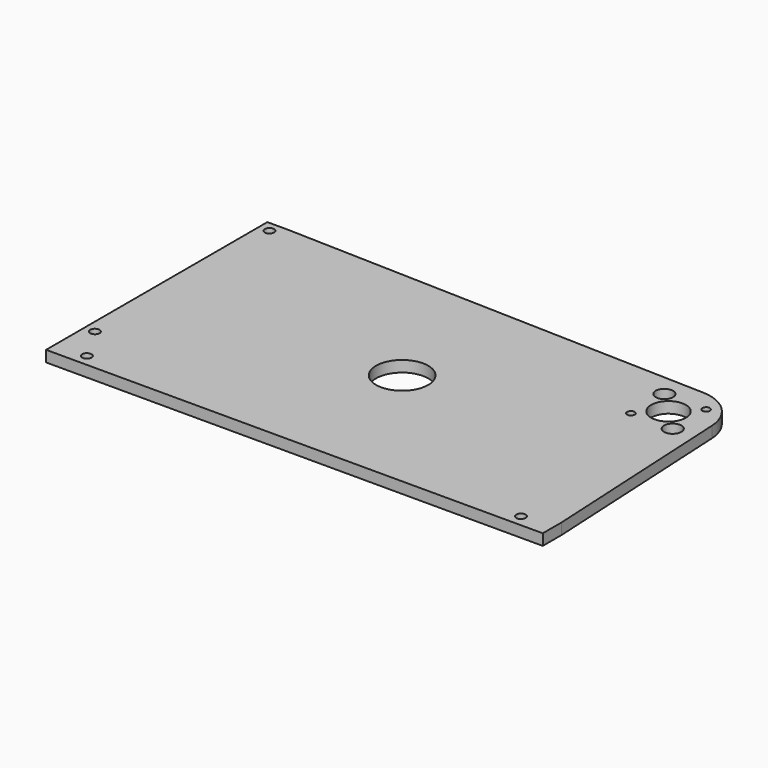
from build123d import *

# Parameters (mm, degrees)
F0_R     = 2.15265
F0_R_2   = 11.906799
F0_R_3   = 1.7272
F0_R_4   = 3.96875
F0_R_5   = 7.9375
F1_DEPTH = 5.08


with BuildPart() as f1:
    # F0 (on Top) → F1 (new body)
    with BuildSketch(Plane.XY):
        with BuildLine():
            Line((0.561299, 19.041729), (-193.597083, 24.765))
            Line((-193.597083, 24.765), (-203.122083, 24.765))
            Line((-203.122083, 24.765), (-203.122083, -101.6))
            Line((-203.122083, -101.6), (23.8125, -101.6))
            Line((23.8125, -101.6), (23.8125, -90.805))
            Line((23.8125, -90.805), (19.024136, 0.992343))
            ThreePointArc((19.024136, 0.992343), (13.316997, 13.622045), (0.561299, 19.041729))
        make_face()
        with Locations((-188.834583, -96.2025)):
            Circle(F0_R, mode=Mode.SUBTRACT)
        with Locations((-198.359583, -79.6925)):
            Circle(F0_R, mode=Mode.SUBTRACT)
        with Locations((9.525, -96.2025)):
            Circle(F0_R, mode=Mode.SUBTRACT)
        with Locations((-91.594763, -37.647229)):
            Circle(F0_R_2, mode=Mode.SUBTRACT)
        with Locations((-198.359583, 20.0025)):
            Circle(F0_R, mode=Mode.SUBTRACT)
        with Locations((-9.541522, -9.541522)):
            Circle(F0_R_3, mode=Mode.SUBTRACT)
        with Locations((9.541522, -9.541522)):
            Circle(F0_R_4, mode=Mode.SUBTRACT)
        Circle(F0_R_5, mode=Mode.SUBTRACT)
        with Locations((-9.541522, 9.541522)):
            Circle(F0_R_4, mode=Mode.SUBTRACT)
        with Locations((9.541522, 9.541522)):
            Circle(F0_R_3, mode=Mode.SUBTRACT)
    extrude(amount=F1_DEPTH)


solid = f1.part
